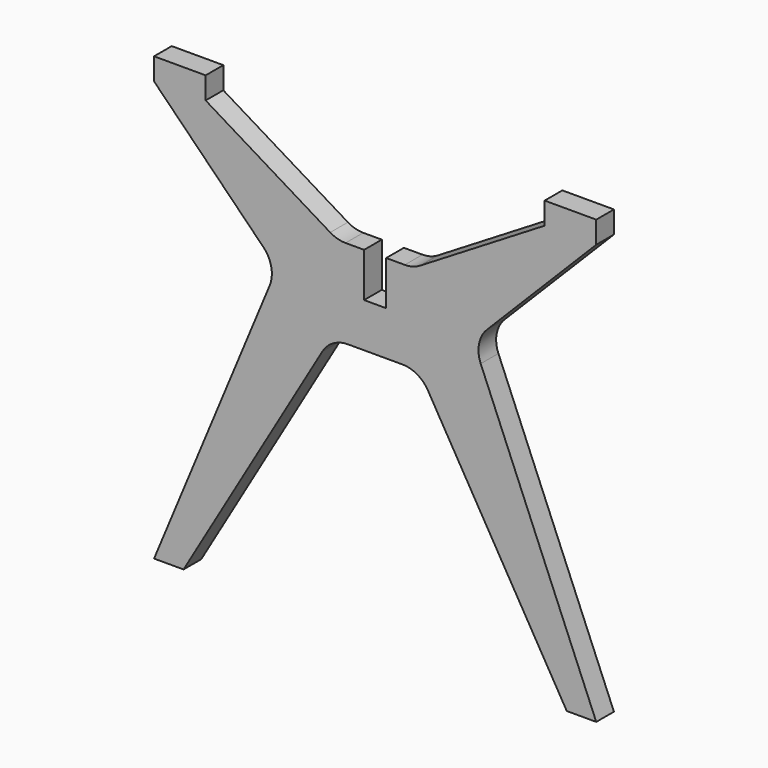
from build123d import *

# Parameters (mm, degrees)
F1_DEPTH = 19.05
F2_R     = 50.8
F3_W     = 88.9
F3_H     = 38.1
F4_DEPTH = 38.1
F5_W     = 38.1
F5_H     = 76.2
F6_DEPTH = 38.101


with BuildPart() as f1:
    # F0 (on Front) → F1 (new body, symmetric)
    with BuildSketch(Plane.XZ):
        Polygon((-76.2, 0), (-19.05, 0), (19.05, 0), (76.2, 0), (330.2, -433.689813), (381, -433.689813), (168.919206, 76.2), (381, 290.210187), (292.1, 290.210187), (65.278791, 152.4), (0, 152.4), (-65.278791, 152.4), (-292.1, 290.210187), (-381, 290.210187), (-168.919206, 76.2), (-381, -433.689813), (-330.2, -433.689813), align=None)
    extrude(amount=F1_DEPTH, both=True)

    # F2
    f2_edges = [f1.edges().sort_by_distance(p)[0] for p in [
        (168.919206, 0, 76.2),
        (-65.278791, 0, 152.4),
        (65.278791, 0, 152.4),
        (-168.919206, 0, 76.2),
        (-76.2, 0, 0),
        (76.2, 0, 0),
    ]]
    fillet(f2_edges, radius=F2_R)

    # F3 (on face) → F4 (join)
    with BuildSketch(Plane.XY.offset(290.210187)):
        with Locations((-336.55, 0)):
            Rectangle(F3_W, F3_H)
        with Locations((336.55, 0)):
            Rectangle(F3_W, F3_H)
    extrude(amount=F4_DEPTH)

    # F5 (on face) → F6 (cut, through all)
    with BuildSketch(Plane.XZ.offset(19.05)):
        with Locations((0, 114.3)):
            Rectangle(F5_W, F5_H)
    extrude(amount=-F6_DEPTH, mode=Mode.SUBTRACT)


solid = f1.part
